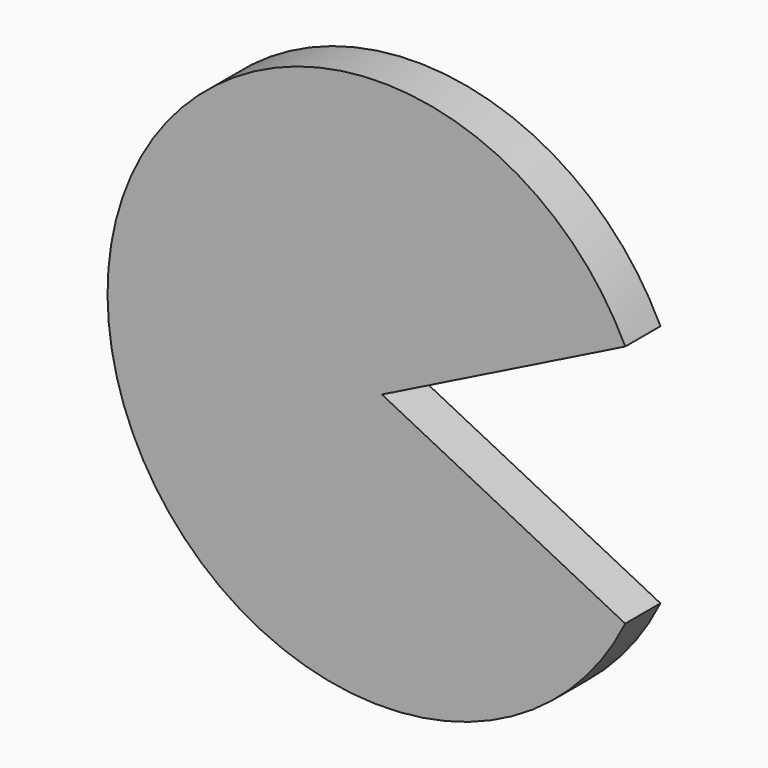
from build123d import *

# Parameters (mm, degrees)
F1_DEPTH = 10


with BuildPart() as f1:
    # F0 (on Front) → F1 (new body)
    with BuildSketch(Plane.XZ):
        with BuildLine():
            Line((7.292911, 3.274544), (62.522121, 30.814715))
            ThreePointArc((62.522121, 30.814715), (21.327258, 63.967445), (-30.368621, 52.847356))
            ThreePointArc((-30.368621, 52.847356), (-54.817622, 8.007093), (-37.51418, -40.044896))
            ThreePointArc((-37.51418, -40.044896), (16.53236, -58.328587), (62.523633, -24.562854))
            Line((62.523633, -24.562854), (7.292911, 3.274544))
        make_face()
    extrude(amount=F1_DEPTH)


solid = f1.part
